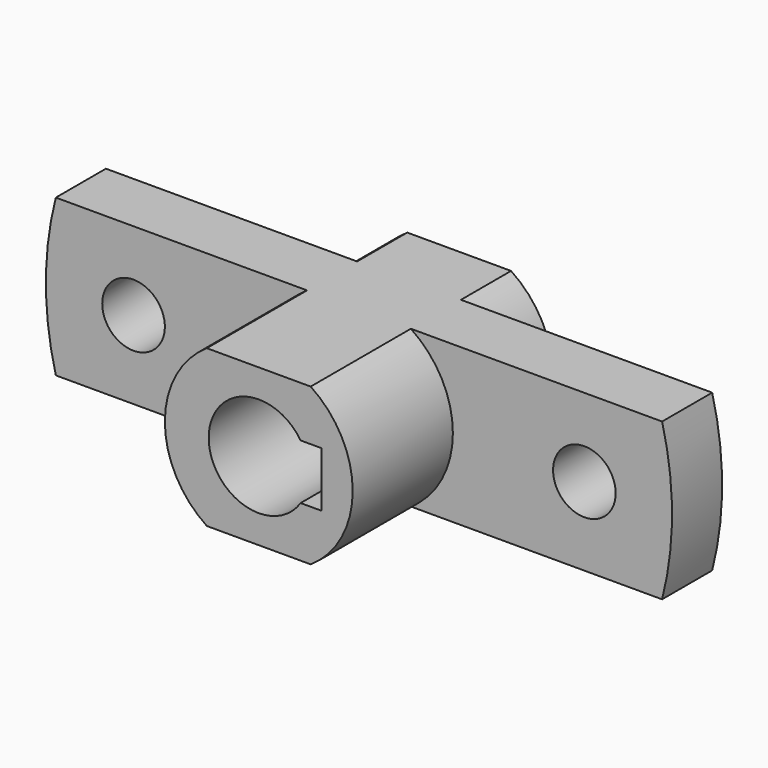
from build123d import *

# Parameters (mm, degrees)
F1_DEPTH      = 30
F1_DEPTH_BACK = 10
F0_R          = 5
F2_DEPTH      = 10
F4_W          = 7.825038
F4_H          = 8.803166
F5_DEPTH      = 40.001


with BuildPart() as f1:
    # F0 (on Front) → F1 (new body, two sides)
    with BuildSketch(Plane.XZ) as f1_sk:
        with BuildLine():
            ThreePointArc((0, 8), (8, 0), (0, -8))
            Line((0, -8), (0, -12.5))
            Line((0, -12.5), (8.291562, -12.5))
            ThreePointArc((8.291562, -12.5), (15, 0), (8.291562, 12.5))
            Line((8.291562, 12.5), (0, 12.5))
            Line((0, 12.5), (0, 8))
        make_face()
    extrude(amount=F1_DEPTH)
    extrude(f1_sk.sketch, amount=-F1_DEPTH_BACK)

    # F0 (on Front) → F2 (join)
    with BuildSketch(Plane.XZ):
        with BuildLine():
            ThreePointArc((8.291562, 12.5), (15, 0), (8.291562, -12.5))
            Line((8.291562, -12.5), (48.412292, -12.5))
            ThreePointArc((48.412292, -12.5), (50, 0), (48.412292, 12.5))
            Line((48.412292, 12.5), (8.291562, 12.5))
        make_face()
        with Locations((36, 0)):
            Circle(F0_R, mode=Mode.SUBTRACT)
    extrude(amount=F2_DEPTH)

    # F3: F1 across plane


with BuildPart() as f1_1:
    add(f1.part)
    add(f1.part.mirror(Plane.YZ))

    # F4 (on face) → F5 (cut, through all)
    with BuildSketch(Plane(origin=(0, 10, 0), x_dir=(-1, 0, 0), z_dir=(0, 1, 0))):
        with Locations((-6.087481, 0)):
            Rectangle(F4_W, F4_H)
    extrude(amount=-F5_DEPTH, mode=Mode.SUBTRACT)


solid = f1_1.part
